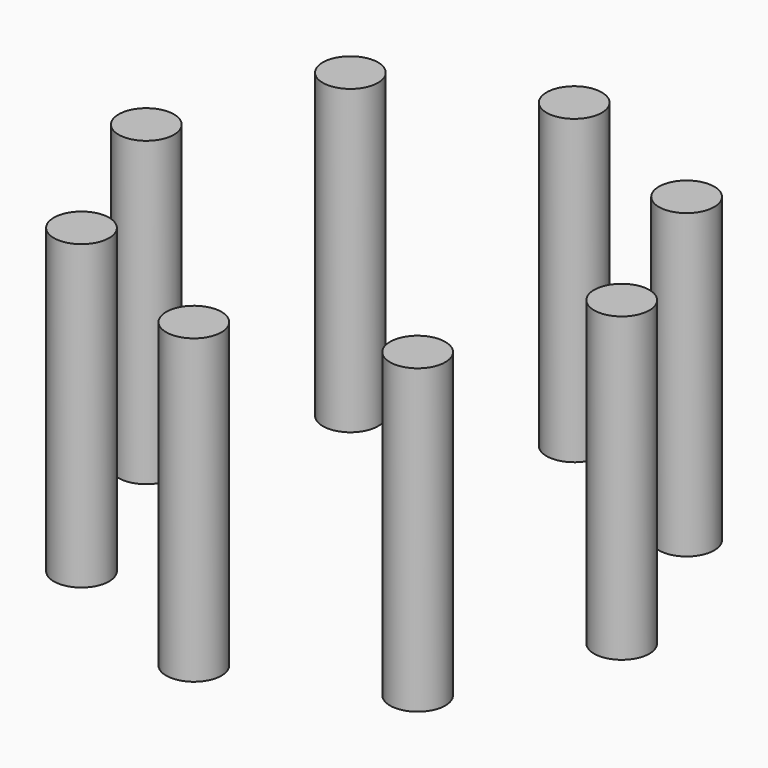
from build123d import *

# Parameters (mm, degrees)
F0_R     = 2.285478
F1_DEPTH = 25


with BuildPart() as f1:
    # F0 (on Top) → F1 (new body)
    with BuildSketch(Plane.XY):
        with Locations((19.65785, 0)):
            Circle(F0_R)
        with Locations((13.900199, 13.900199)):
            Circle(F0_R)
        with Locations((0, 19.65785)):
            Circle(F0_R)
        with Locations((-13.900199, 13.900199)):
            Circle(F0_R)
        with Locations((-19.65785, 0)):
            Circle(F0_R)
        with Locations((-13.900199, -13.900199)):
            Circle(F0_R)
        with Locations((0, -19.65785)):
            Circle(F0_R)
        with Locations((13.900199, -13.900199)):
            Circle(F0_R)
    extrude(amount=F1_DEPTH)


solid = f1.part
